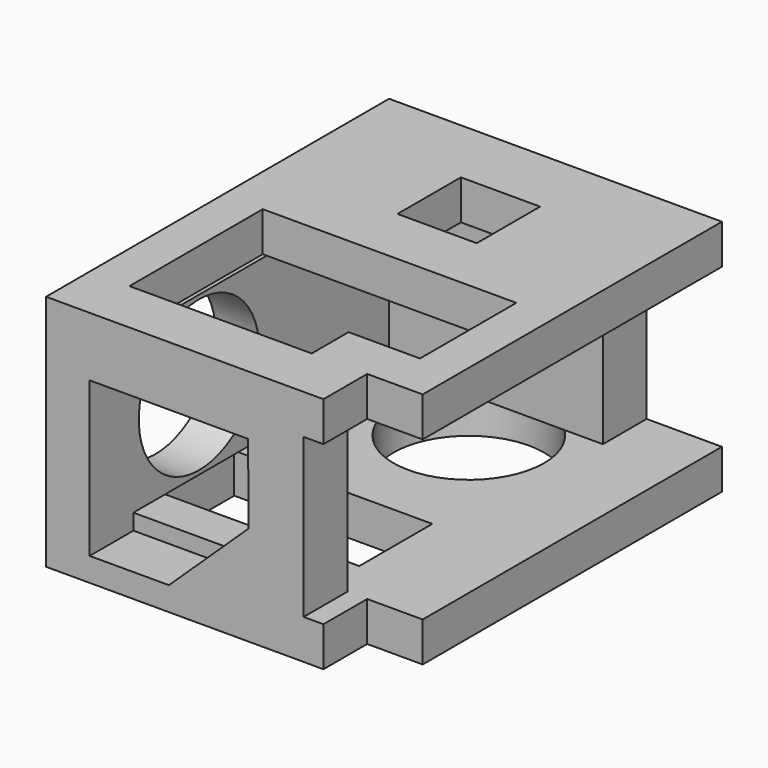
from build123d import *

# Parameters (mm, degrees)
PAD_DEPTH       = 30
POCKET_DEPTH    = 20
POCKET001_DEPTH = 6.9
SKETCH004_R     = 9.5
POCKET002_DEPTH = 5
SKETCH005_W     = 10
SKETCH005_H     = 10
POCKET003_DEPTH = 5
SKETCH006_R     = 9.5
POCKET004_DEPTH = 56


with BuildPart() as part:
    # Sketch → Pad (new body)
    with BuildSketch(Plane.XY):
        Polygon((-21, 25.2), (-21, -28.9), (14, -28.9), (14, -22), (21, -22), (21, 25.2), align=None)
    extrude(amount=PAD_DEPTH)

    # Sketch001 → Pocket (cut)
    with BuildSketch(Plane.XY.offset(5)):
        Polygon((-15.5, 18.3), (-15.5, -22), (11.5, -22), (11.5, -28.9), (14, -28.9), (14, -22), (21, -22), (21, -18), (27.5, -18), (27.5, -12), (21, -12), (21, 12.2), (21, 12.2), (21, 18.2), (21, 18.2), (21, 25.2), (11.5, 25.2), (11.5, 18.3), align=None)
    extrude(amount=POCKET_DEPTH, mode=Mode.SUBTRACT)

    # Sketch003 → Pocket001 (cut)
    with BuildSketch(Plane(origin=(-15.5, -28.9, 3), x_dir=(1, 0, 0), z_dir=(0, -1, 0))):
        Polygon((20.030856, 9.535838), (10, 0), (0, 0), (0, 19.5), (20, 19.5), align=None)
    extrude(amount=-POCKET001_DEPTH, mode=Mode.SUBTRACT)

    # Sketch004 → Pocket002 (cut)
    with BuildSketch(Plane.XY.offset(5)):
        with Locations((0, 11.525)):
            Circle(SKETCH004_R)
        Polygon((-16, -5.475), (-16, -17), (9, -17), (9, -16.114332), (9, -5.475), align=None)
    extrude(amount=-POCKET002_DEPTH, mode=Mode.SUBTRACT)

    # Sketch005 → Pocket003 (cut)
    with BuildSketch(Plane.XY.offset(30)):
        Polygon((-16, -0.975), (-16, -22), (7, -22), (7, -16.175392), (16, -16.175392), (16, -0.975), align=None)
        with Locations((0, 11.525)):
            Rectangle(SKETCH005_W, SKETCH005_H)
    extrude(amount=-POCKET003_DEPTH, mode=Mode.SUBTRACT)

    # Sketch006 → Pocket004 (cut)
    with BuildSketch(Plane.YZ.offset(-22)):
        with Locations((-11.65, 15)):
            Circle(SKETCH006_R)
    extrude(amount=POCKET004_DEPTH, mode=Mode.SUBTRACT)


solid = part.part
